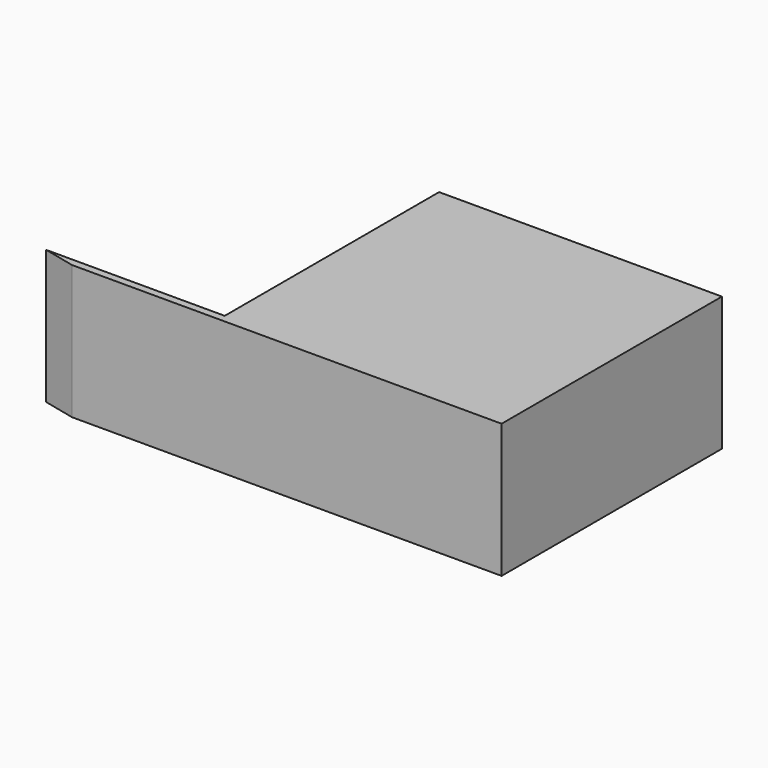
from build123d import *

# Parameters (mm, degrees)
F1_DEPTH = 28.575
F2_W     = 57.15
F2_H     = 57.15
F3_DEPTH = 1.5875


with BuildPart() as f1:
    # F0 (on Top) → F1 (new body)
    with BuildSketch(Plane.XY):
        Polygon((38.1, 0), (0, 0), (6.8194, -1.5875), (98.425, -1.5875), (98.425, 57.15), (96.8375, 57.15), (96.8375, 0), (39.6875, 0), (39.6875, 57.15), (38.1, 57.15), align=None)
    extrude(amount=F1_DEPTH)

    # F2 (on face) → F3 (join)
    with BuildSketch(Plane.XY.offset(28.575)):
        with Locations((68.2625, 28.575)):
            Rectangle(F2_W, F2_H)
    extrude(amount=-F3_DEPTH)


solid = f1.part
